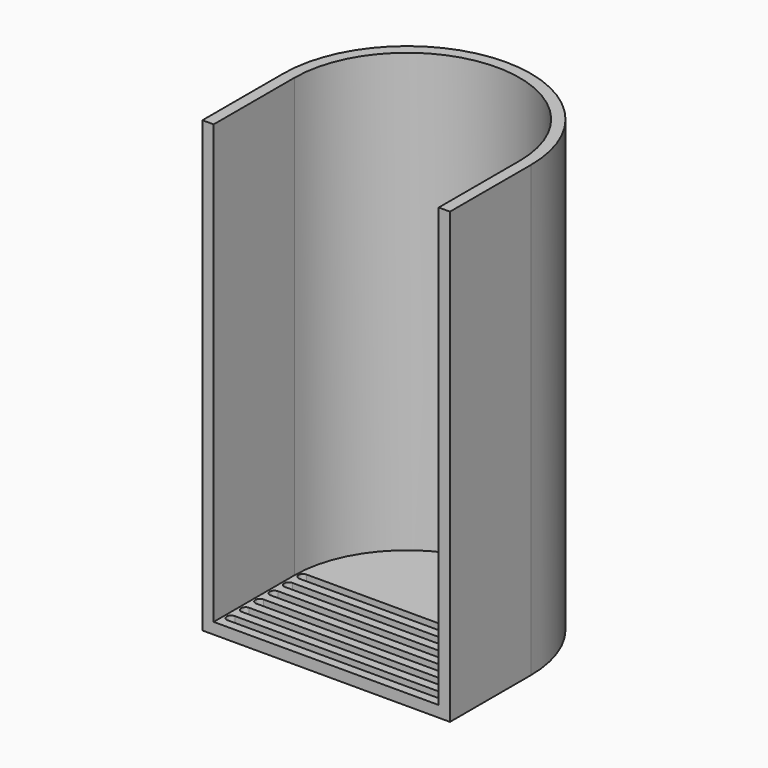
from build123d import *

# Parameters (mm, degrees)
PAD_DEPTH           = 100
POCKET_DEPTH        = 97.5
POCKET001_DEPTH     = 2.5
LINEARPATTERN_COUNT = 6
LINEARPATTERN_PITCH = 4


with BuildPart() as part:
    # Sketch → Pad (new body)
    with BuildSketch(Plane.XY):
        with BuildLine():
            Line((55.1, 22.5), (55.1, 0))
            Line((55.1, 0), (0, 0))
            Line((0, 0), (0, 22.500077))
            ThreePointArc((55.1, 22.5), (27.550038, 50.050045), (0, 22.500077))
        make_face()
    extrude(amount=PAD_DEPTH)

    # Sketch001 (on Face6 of Pad) → Pocket (cut)
    with BuildSketch(Plane.XY.offset(100)):
        with BuildLine():
            ThreePointArc((52.6, 22.5), (27.550011, 47.55), (2.5, 22.500021))
            Line((2.5, 0), (2.5, 22.500021))
            Line((52.6, 0), (2.5, 0))
            Line((52.6, 22.5), (52.6, 0))
        make_face()
    extrude(amount=-POCKET_DEPTH, mode=Mode.SUBTRACT)

    # Sketch002 (on Face4 of Pocket) → Pocket001 (cut)
    with BuildSketch(Plane(origin=(0, 0, 0), x_dir=(1, 0, 0), z_dir=(0, 0, -1))):
        with BuildLine():
            ThreePointArc((4, -2), (3, -3), (4, -4))
            Line((4, -4), (51.1, -4))
            ThreePointArc((51.1, -4), (52.1, -3), (51.1, -2))
            Line((4, -2), (51.1, -2))
        make_face()
    pocket001 = extrude(amount=-POCKET001_DEPTH, mode=Mode.SUBTRACT)

    # LinearPattern: Pocket001 ×6
    with Locations(*[(0, i * LINEARPATTERN_PITCH, 0) for i in range(1, LINEARPATTERN_COUNT)]):
        add(pocket001, mode=Mode.SUBTRACT)


solid = part.part
